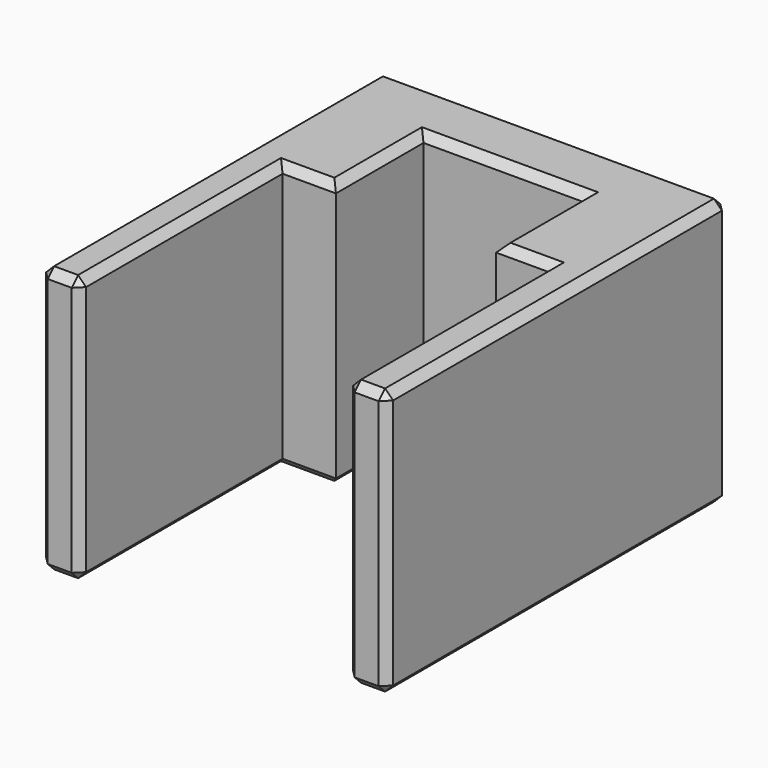
from build123d import *

# Parameters (mm, degrees)
BOX008_W        = 20
BOX008_H        = 20
BOX008_DEPTH    = 20
BOX_W           = 12
BOX_H           = 8.2
BOX_DEPTH       = 20
BOX009_W        = 26
BOX009_H        = 32
BOX009_DEPTH    = 20
CHAMFER002_SIZE = 0.6


with BuildPart() as cube008:
    # Box008 → Box008 (new body)
    with BuildSketch(Plane(origin=(-10, -20, 0), x_dir=(1, 0, 0), z_dir=(0, 0, 1))):
        with Locations((10, 10)):
            Rectangle(BOX008_W, BOX008_H)
    extrude(amount=BOX008_DEPTH)


with BuildPart() as fusion002:
    # Box → Box (new body)
    with BuildSketch(Plane(origin=(-6, 0, 0), x_dir=(1, 0, 0), z_dir=(0, 0, 1))):
        with Locations((6, 4.1)):
            Rectangle(BOX_W, BOX_H)
    extrude(amount=BOX_DEPTH)

    # Fusion002: union Cube008
    add(cube008.part)


with BuildPart() as chamfer002:
    # Box009 → Box009 (new body)
    with BuildSketch(Plane(origin=(-13, -19, 0), x_dir=(1, 0, 0), z_dir=(0, 0, 1))):
        with Locations((13, 16)):
            Rectangle(BOX009_W, BOX009_H)
    extrude(amount=BOX009_DEPTH)

    # Cut003: cut Fusion002
    add(fusion002.part, mode=Mode.SUBTRACT)

    # Chamfer002
    chamfer002_edges = [chamfer002.edges().sort_by_distance(p)[0] for p in [
        (-13, -19, 10),
        (-13, -3, 20),
        (-13, 13, 10),
        (-13, -3, 0),
        (-11.5, -19, 0),
        (-10, -19, 10),
        (-11.5, -19, 20),
        (0, 13, 20),
        (13, -3, 20),
        (11.5, -19, 20),
        (10, -9.5, 20),
        (8, 0, 20),
        (6, 4.1, 20),
        (0, 8.2, 20),
        (-6, 4.1, 20),
        (-8, 0, 20),
        (-10, -9.5, 20),
        (0, 13, 0),
        (13, 13, 10),
        (13, -3, 0),
        (11.5, -19, 0),
        (10, -9.5, 0),
        (8, 0, 0),
        (6, 4.1, 0),
        (0, 8.2, 0),
        (-6, 4.1, 0),
        (-8, 0, 0),
        (-10, -9.5, 0),
        (13, -19, 10),
        (10, -19, 10),
    ]]
    chamfer(chamfer002_edges, length=CHAMFER002_SIZE)


solid = chamfer002.part
